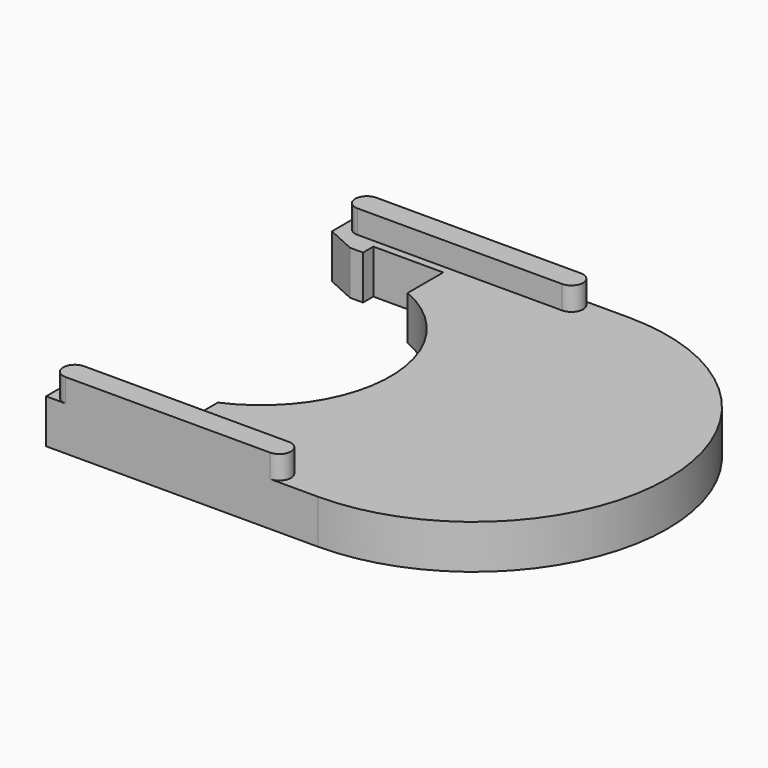
from build123d import *

# Parameters (mm, degrees)
F2_DEPTH = 1.7
F3_DEPTH = 2
F5_DEPTH = 0.9


with BuildPart() as f2:
    # F0 (on Top) → F2 (new body)
    with BuildSketch(Plane.XY):
        with BuildLine():
            Line((1.5, 7.5), (-9, 7.5))
            Line((-9, 7.5), (-9, 6.3))
            Line((-9, 6.3), (-7.9, 5.8))
            Line((-7.9, 5.8), (-7.4, 5.8))
            Line((-7.4, 5.8), (-7.4, 6.3))
            Line((-7.4, 6.3), (-4.7, 6.3))
            Line((-4.7, 6.3), (-4.7, 4.5))
            Line((-4.7, 4.5), (-4.7, -6.3))
            Line((-4.7, -6.3), (-7.4, -6.3))
            Line((-7.4, -6.3), (-7.4, -5.8))
            Line((-7.4, -5.8), (-7.9, -5.8))
            Line((-7.9, -5.8), (-9, -6.3))
            Line((-9, -6.3), (-9, -7.5))
            Line((-9, -7.5), (1.5, -7.5))
            ThreePointArc((1.5, -7.5), (9, 0), (1.5, 7.5))
        make_face()
    extrude(amount=F2_DEPTH)

    # F1 (on Top) → F3 (cut)
    with BuildSketch(Plane.XY):
        with BuildLine():
            Line((-4.7, -5.5), (-4.7, -4.582576))
            ThreePointArc((-4.7, -4.582576), (-1.7, 0), (-4.7, 4.582576))
            Line((-4.7, 4.582576), (-4.7, 5.5))
            Line((-4.7, 5.5), (-13.7, 5.5))
            Line((-13.7, 5.5), (-13.7, -5.5))
            Line((-13.7, -5.5), (-4.7, -5.5))
        make_face()
    extrude(amount=F3_DEPTH, mode=Mode.SUBTRACT)

    # F4 (on face) → F5 (join)
    with BuildSketch(Plane.XY.offset(1.7)):
        with BuildLine():
            Line((-0.35, 7.5), (-8.25, 7.5))
            ThreePointArc((-8.25, 7.5), (-8.7, 7.05), (-8.25, 6.6))
            Line((-8.25, 6.6), (-0.35, 6.6))
            ThreePointArc((-0.35, 6.6), (0.1, 7.05), (-0.35, 7.5))
        make_face()
        with BuildLine():
            Line((-0.35, -6.6), (-8.25, -6.6))
            ThreePointArc((-8.25, -6.6), (-8.7, -7.05), (-8.25, -7.5))
            Line((-8.25, -7.5), (-0.35, -7.5))
            ThreePointArc((-0.35, -7.5), (0.1, -7.05), (-0.35, -6.6))
        make_face()
    extrude(amount=F5_DEPTH)


solid = f2.part
